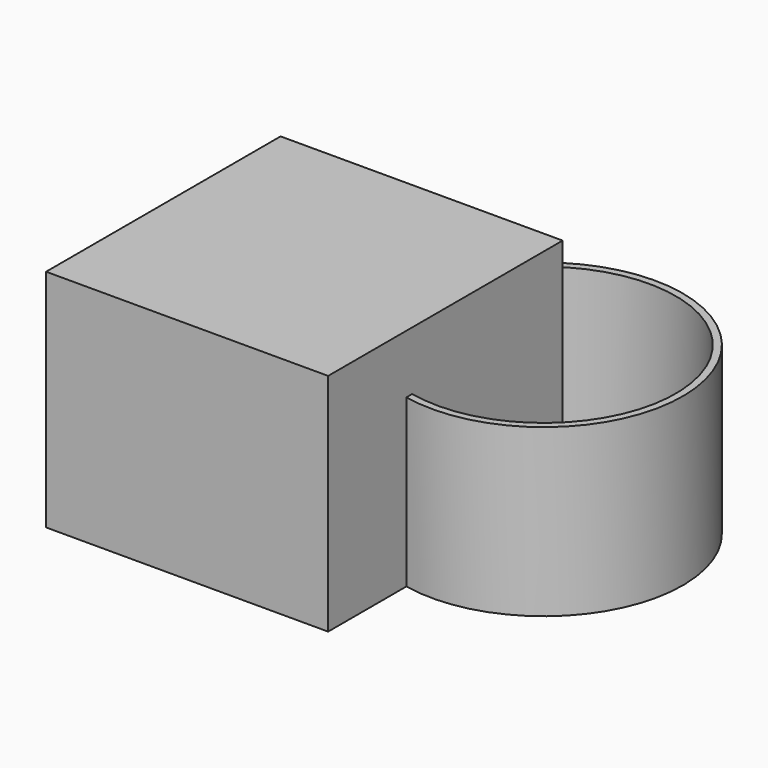
from build123d import *

# Parameters (mm, degrees)
F0_R     = 49.654928
F1_DEPTH = 59.378261
F2_T     = -2.54
F3_W     = 100.591485
F3_H     = 104.532239
F4_DEPTH = 80.290629


with BuildPart() as f1:
    # F0 (on Top) → F1 (new body)
    with BuildSketch(Plane.XY):
        with Locations((0, -10.152236)):
            Circle(F0_R)
    extrude(amount=F1_DEPTH)

    # F2
    f2_openings = [f1.faces().sort_by_distance(p)[0] for p in [
        (0, -10.152236, 59.378261),
    ]]
    offset(amount=F2_T, openings=f2_openings)

    # F3 (on face) → F4 (join)
    with BuildSketch(Plane(origin=(0, 0, 0), x_dir=(1, 0, 0), z_dir=(0, 0, -1))):
        with Locations((-60.349798, 41.384102)):
            Rectangle(F3_W, F3_H)
    extrude(amount=-F4_DEPTH)


solid = f1.part
